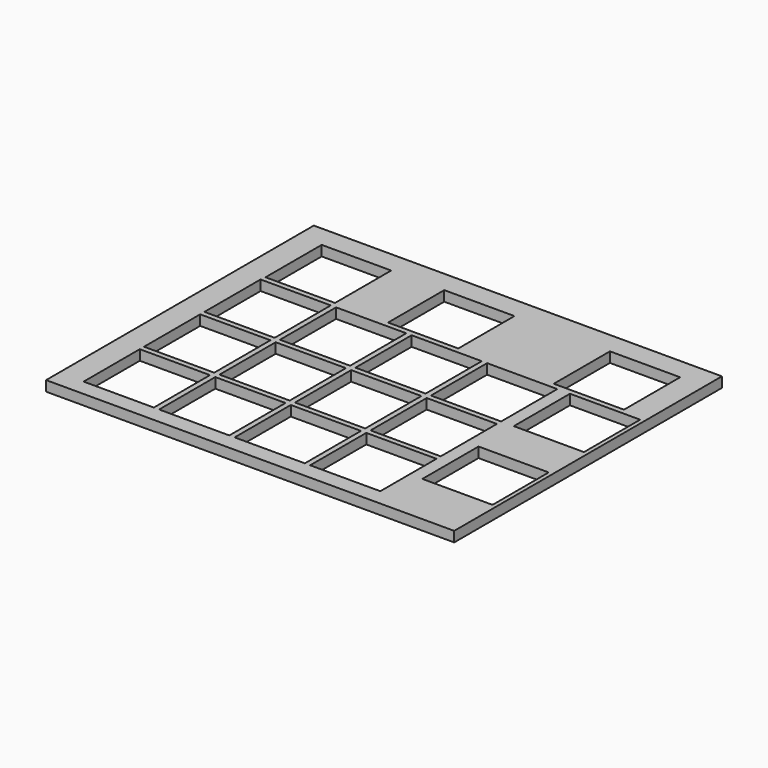
from build123d import *

# Parameters (mm, degrees)
F0_W      = 100
F0_H      = 82
F1_DEPTH  = 2.5
F2_W      = 17.2
F2_H      = 17.2
F3_DEPTH  = 25
F2_W_2    = 17.030713
F4_DEPTH  = 25
F5_W      = 17.2
F5_H      = 17.2
F6_DEPTH  = 25
F7_W      = 17.2
F7_H      = 17.2
F8_DEPTH  = 25
F9_W      = 17.2
F9_H      = 17.2
F10_DEPTH = 25
F11_W     = 17.2
F11_H     = 17.2
F12_DEPTH = 25
F13_W     = 17.2
F13_H     = 17.2
F14_DEPTH = 25
F15_W     = 17.2
F15_H     = 17.2
F16_DEPTH = 25


with BuildPart() as f1:
    # F0 (on Top) → F1 (new body)
    with BuildSketch(Plane.XY):
        with Locations((-39.136762, -41)):
            Rectangle(F0_W, F0_H)
    extrude(amount=F1_DEPTH)

    # F2 (on face) → F3 (cut)
    with BuildSketch(Plane.XY.offset(2.5)):
        with Locations((-74.536762, -69.4)):
            Rectangle(F2_W, F2_H)
    extrude(amount=-F3_DEPTH, mode=Mode.SUBTRACT)

    # F2 (on face) → F4 (cut)
    with BuildSketch(Plane.XY.offset(2.5)):
        with Locations((-74.536762, -69.4)):
            Rectangle(F2_W, F2_H)
        with Locations((-74.536762, -50.9)):
            Rectangle(F2_W, F2_H)
        with Locations((-74.536762, -32.4)):
            Rectangle(F2_W, F2_H)
        with Locations((-74.452118, -13.9)):
            Rectangle(F2_W_2, F2_H)
    extrude(amount=-F4_DEPTH, mode=Mode.SUBTRACT)

    # F5 (on face) → F6 (cut)
    with BuildSketch(Plane.XY.offset(2.5)):
        with Locations((-56.036762, -69.4)):
            Rectangle(F5_W, F5_H)
        with Locations((-37.536762, -69.4)):
            Rectangle(F5_W, F5_H)
        with Locations((-19.036762, -69.4)):
            Rectangle(F5_W, F5_H)
    extrude(amount=-F6_DEPTH, mode=Mode.SUBTRACT)

    # F7 (on face) → F8 (cut)
    with BuildSketch(Plane.XY.offset(2.5)):
        with Locations((-56.036762, -50.9)):
            Rectangle(F7_W, F7_H)
        with Locations((-56.036762, -32.4)):
            Rectangle(F7_W, F7_H)
        with Locations((-37.536762, -50.9)):
            Rectangle(F7_W, F7_H)
        with Locations((-37.536762, -32.4)):
            Rectangle(F7_W, F7_H)
    extrude(amount=-F8_DEPTH, mode=Mode.SUBTRACT)

    # F9 (on face) → F10 (cut)
    with BuildSketch(Plane.XY.offset(2.5)):
        with Locations((-19.036762, -50.9)):
            Rectangle(F9_W, F9_H)
        with Locations((-19.036762, -32.4)):
            Rectangle(F9_W, F9_H)
    extrude(amount=-F10_DEPTH, mode=Mode.SUBTRACT)

    # F11 (on face) → F12 (cut)
    with BuildSketch(Plane.XY.offset(2.5)):
        with Locations((1.263238, -60.4)):
            Rectangle(F11_W, F11_H)
        with Locations((1.263238, -32.4)):
            Rectangle(F11_W, F11_H)
    extrude(amount=-F12_DEPTH, mode=Mode.SUBTRACT)

    # F13 (on face) → F14 (cut)
    with BuildSketch(Plane.XY.offset(2.5)):
        with Locations((-44.336762, -13.9)):
            Rectangle(F13_W, F13_H)
    extrude(amount=-F14_DEPTH, mode=Mode.SUBTRACT)

    # F15 (on face) → F16 (cut)
    with BuildSketch(Plane.XY.offset(2.5)):
        with Locations((-3.736762, -13.9)):
            Rectangle(F15_W, F15_H)
    extrude(amount=-F16_DEPTH, mode=Mode.SUBTRACT)


solid = f1.part
